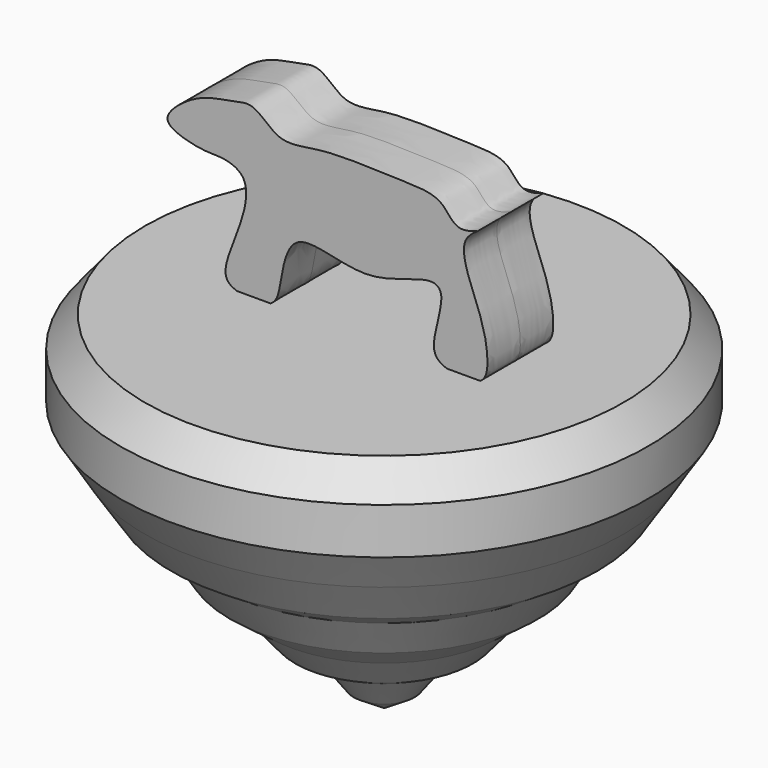
from build123d import *

# Parameters (mm, degrees)
F3_DEPTH = 5


with BuildPart() as f1:
    # F0 (on Front) → F1 (revolve)
    with BuildSketch(Plane.XZ):
        Polygon((0, -42.1875007451), (0, 0), (-29.1117560118, 0), (-32.1217104793, -3.7006579805), (-32.1217104793, -9.3256589025), (-29.1611850262, -14.0625005588), (-25.9046070278, -19.0953947604), (-21.7598695308, -21.7598676682), (-18.7993440777, -26.4967121184), (-14.0625014901, -30.0493445247), (-10.8059216291, -33.8980257511), (-6.3651311211, -36.2664498389), (-3.7006582133, -39.8190803826), align=None)
    revolve(axis=Axis((0, 0, -21.0937503725), (0, 0, -1)))

    # F2 (on Front) → F3 (join, symmetric)
    with BuildSketch(Plane.XZ):
        with BuildLine():
            add(Edge.make_bspline(
                [(-13.8872517273, 0), (-14.7338649614, 0.2802574691), (-16.1351915345, 1.4322954203), (-13.0014427194, 7.7021457808), (-12.3805560981, 12.6656989052), (-15.6176840346, 13.8461338075), (-17.9041195375, 13.5519152703), (-22.734419669, 14.7965138251), (-22.1449656487, 16.934252702), (-18.3237309805, 19.6822005292), (-14.6806580538, 19.9827396299), (-11.759223559, 20.9807181202), (-8.8318360081, 17.2158861642), (-3.5258851154, 18.839454398), (5.5809702926, 18.2957749428), (11.1891892578, 18.3378849068), (12.6112313588, 14.7899245916), (16.4645700034, 16.4299385449), (12.3545024601, 14.3961462287), (15.8979166002, 7.3361068946), (16.778176684, 2.66162229), (16.2357392123, -0.6949636071), (11.4212076259, -0.306012796), (9.2196139667, 1.5796745992), (11.7612442012, 7.8039128899), (9.2330167304, 9.4135894653), (1.8658788535, 5.2668562206), (-7.4148227651, 9.9059643887), (-8.6004345998, 2.6633851749), (-9.2020979185, -0.6457797444), (-12.6945688648, -0.3948181614), (-13.8872517273, 0)],
                knots=[0, 0, 0, 0, 0.0245606821, 0.0688255229, 0.1056268639, 0.1333492467, 0.1613225413, 0.1969250057, 0.2174104268, 0.2540613569, 0.287582041, 0.3155553352, 0.349111931, 0.3879756615, 0.4409924406, 0.4801301992, 0.5099027423, 0.5350668644, 0.5593340228, 0.6055304493, 0.6447919004, 0.6720632396, 0.7066635784, 0.7334086155, 0.775089578, 0.7979043693, 0.846367439, 0.8959180435, 0.9357382432, 0.9653996612, 1, 1, 1, 1], degree=3))
        make_face()
    extrude(amount=F3_DEPTH, both=True)


solid = f1.part
